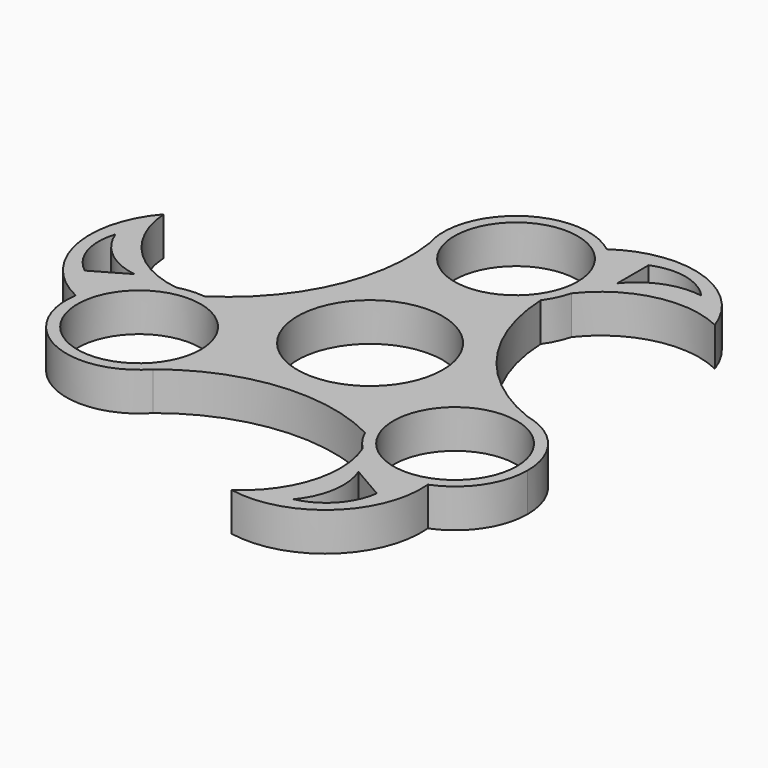
from build123d import *

# Parameters (mm, degrees)
F0_R     = 11.2
F0_R_2   = 13.2
F1_DEPTH = 7


with BuildPart() as f1:
    # F0 (on Top) → F1 (new body)
    with BuildSketch(Plane.XY):
        with BuildLine():
            ThreePointArc((8.196883, 43.489378), (11.883578, 38.889181), (13.2, 33.142827))
            ThreePointArc((13.2, 33.142827), (13.091127, 31.450967), (12.766304, 29.787014))
            ThreePointArc((12.766304, 29.787014), (22.838754, 36.23194), (34.721535, 34.893717))
            ThreePointArc((34.721535, 34.893717), (23.601535, 45.802377), (8.196883, 43.489378))
        make_face()
        with BuildLine():
            Line((15.914399, 36.23194), (15.914399, 43.363083))
            ThreePointArc((15.914399, 43.363083), (22.173991, 43.913263), (27.594689, 40.735021))
            ThreePointArc((27.594689, 40.735021), (21.13705, 40.085165), (15.914399, 36.23194))
        make_face(mode=Mode.SUBTRACT)
        with BuildLine():
            ThreePointArc((12.766304, 29.787014), (13.091127, 31.450967), (13.2, 33.142827))
            ThreePointArc((13.2, 33.142827), (11.883578, 38.889181), (8.196883, 43.489378))
            ThreePointArc((8.196883, 43.489378), (-7.471585, 44.024712), (-12.600441, 29.209777))
            ThreePointArc((-12.600441, 29.209777), (-2.135699, 20.116746), (10.684808, 25.39203))
            ThreePointArc((10.684808, 25.39203), (11.929696, 27.49284), (12.766304, 29.787014))
        make_face()
        with Locations((0, 33.142827)):
            Circle(F0_R, mode=Mode.SUBTRACT)
        with BuildLine():
            ThreePointArc((41.902531, -16.571414), (39.00889, -8.324054), (31.59663, -3.692587))
            ThreePointArc((31.59663, -3.692587), (18.489463, -8.208803), (16.647738, -21.94933))
            ThreePointArc((16.647738, -21.94933), (17.84465, -24.07784), (19.413159, -25.949451))
            ThreePointArc((19.413159, -25.949451), (26.05786, -29.503765), (33.564465, -28.843398))
            ThreePointArc((33.564465, -28.843398), (39.620807, -23.989718), (41.902531, -16.571414))
        make_face()
        with Locations((28.702531, -16.571414)):
            Circle(F0_R, mode=Mode.SUBTRACT)
        with BuildLine():
            ThreePointArc((10.684808, 25.39203), (-2.135699, 20.116746), (-12.600441, 29.209777))
            ThreePointArc((-12.600441, 29.209777), (-15.116985, 10.695543), (-27.332547, -3.442699))
            ThreePointArc((-27.332547, -3.442699), (-18.896314, -7.735232), (-15.502531, -16.571414))
            ThreePointArc((-15.502531, -16.571414), (-16.406927, -21.373303), (-18.996189, -25.517191))
            ThreePointArc((-18.996189, -25.517191), (-1.70412, -18.439465), (16.647738, -21.94933))
            ThreePointArc((16.647738, -21.94933), (18.489463, -8.208803), (31.59663, -3.692587))
            ThreePointArc((31.59663, -3.692587), (16.821105, 7.743921), (10.684808, 25.39203))
        make_face()
        Circle(F0_R_2, mode=Mode.SUBTRACT)
        with BuildLine():
            ThreePointArc((12.858078, -47.516589), (27.865255, -43.340718), (33.564465, -28.843398))
            ThreePointArc((33.564465, -28.843398), (26.05786, -29.503765), (19.413159, -25.949451))
            ThreePointArc((19.413159, -25.949451), (19.958404, -37.894911), (12.858078, -47.516589))
        make_face()
        with BuildLine():
            ThreePointArc((29.596332, -35.463816), (26.943006, -41.159871), (21.480219, -44.265213))
            ThreePointArc((21.480219, -44.265213), (24.146247, -38.347805), (23.420581, -31.898244))
            Line((23.420581, -31.898244), (29.596332, -35.463816))
        make_face(mode=Mode.SUBTRACT)
        with BuildLine():
            ThreePointArc((-15.502531, -16.571414), (-18.896314, -7.735232), (-27.332547, -3.442699))
            ThreePointArc((-27.332547, -3.442699), (-29.774346, -3.415), (-32.179463, -3.837564))
            ThreePointArc((-32.179463, -3.837564), (-38.57994, -7.814886), (-41.761348, -14.64598))
            ThreePointArc((-41.761348, -14.64598), (-34.390727, -28.482939), (-18.996189, -25.517191))
            ThreePointArc((-18.996189, -25.517191), (-16.406927, -21.373303), (-15.502531, -16.571414))
        make_face()
        with Locations((-28.702531, -16.571414)):
            Circle(F0_R, mode=Mode.SUBTRACT)
        with BuildLine():
            ThreePointArc((-41.761348, -14.64598), (-38.57994, -7.814886), (-32.179463, -3.837564))
            ThreePointArc((-32.179463, -3.837564), (-42.797158, 1.662971), (-47.579612, 12.622873))
            ThreePointArc((-47.579612, 12.622873), (-51.46679, -2.46166), (-41.761348, -14.64598))
        make_face()
        with BuildLine():
            ThreePointArc((-45.510731, -7.899268), (-49.116997, -2.753392), (-49.074908, 3.530191))
            ThreePointArc((-49.074908, 3.530191), (-45.283296, -1.737361), (-39.33498, -4.333696))
            Line((-39.33498, -4.333696), (-45.510731, -7.899268))
        make_face(mode=Mode.SUBTRACT)
    extrude(amount=F1_DEPTH)


solid = f1.part
